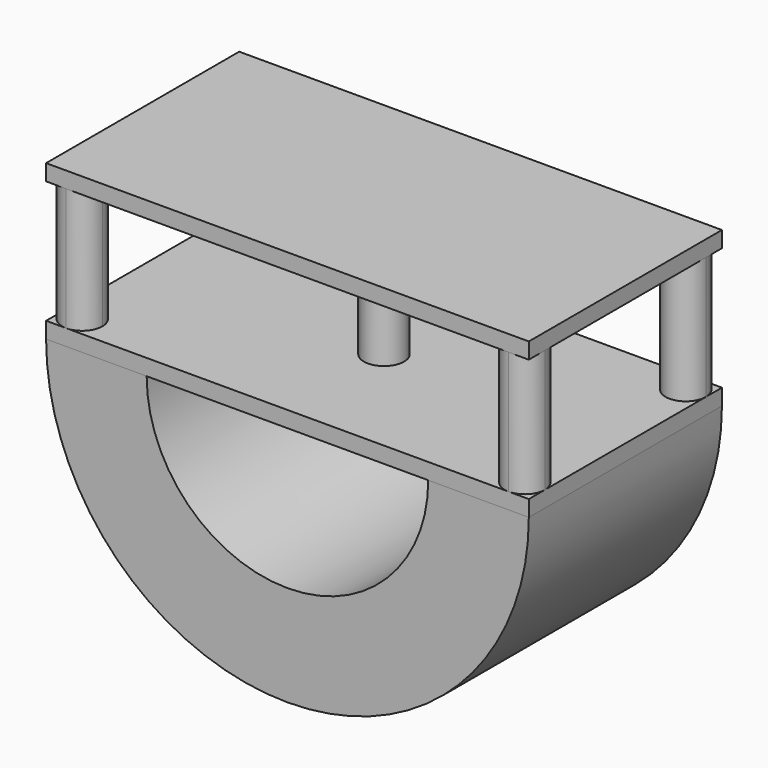
from build123d import *

# Parameters (mm, degrees)
F0_W      = 120
F0_H      = 60
F1_DEPTH  = 4
F2_R      = 5
F3_DEPTH  = 30.5
F5_DEPTH  = 30.5
F7_DEPTH  = 4
F10_DEPTH = 60


with BuildPart() as f1:
    # F0 (on Top) → F1 (new body)
    with BuildSketch(Plane.XY):
        with Locations((60, 30)):
            Rectangle(F0_W, F0_H)
    extrude(amount=F1_DEPTH)

    # F2 (on face) → F3 (join)
    with BuildSketch(Plane.XY.offset(4)):
        with Locations((60, 30)):
            Circle(F2_R)
    extrude(amount=F3_DEPTH)

    # F4 (on face) → F5 (join)
    with BuildSketch(Plane.XY.offset(4)):
        with BuildLine():
            ThreePointArc((0, 55), (5, 50), (10, 55))
            ThreePointArc((10, 55), (8.5355339376, 58.5355338743), (5.0000000895, 60))
            ThreePointArc((5.0000000895, 60), (1.4644661257, 58.5355339376), (0, 55))
        make_face()
        with BuildLine():
            ThreePointArc((10, 5), (5.0000000094, 10), (0, 5.0000000189))
            ThreePointArc((0, 5.0000000189), (1.4644660874, 1.4644661007), (5, 0))
            ThreePointArc((5, 0), (8.5355339059, 1.4644660941), (10, 5))
        make_face()
        with BuildLine():
            ThreePointArc((120, 55), (118.5355339059, 58.5355339059), (115, 60))
            ThreePointArc((115, 60), (111.4644660941, 51.4644660941), (120, 55))
        make_face()
        with BuildLine():
            ThreePointArc((115, 0), (118.5355339059, 1.4644660941), (120, 5))
            ThreePointArc((120, 5), (111.4644660941, 8.5355339059), (115, 0))
        make_face()
    extrude(amount=F5_DEPTH)

    # F6 (on face) → F7 (join)
    with BuildSketch(Plane.XY.offset(34.5)):
        with BuildLine():
            Line((0, 55), (0, 0))
            Line((0, 0), (120, 0))
            Line((120, 0), (120, 60))
            Line((120, 60), (5, 60))
            ThreePointArc((5, 60), (8.5355339059, 58.5355339059), (10, 55))
            ThreePointArc((10, 55), (5, 50), (0, 55))
        make_face()
        with BuildLine():
            Line((0, 60), (0, 55))
            ThreePointArc((0, 55), (1.4644660941, 58.5355339059), (5, 60))
            Line((5, 60), (0, 60))
        make_face()
        with BuildLine():
            ThreePointArc((5, 60), (1.4644660941, 58.5355339059), (0, 55))
            ThreePointArc((0, 55), (5, 50), (10, 55))
            ThreePointArc((10, 55), (8.5355339059, 58.5355339059), (5, 60))
        make_face()
    extrude(amount=F7_DEPTH)


with BuildPart() as f10:
    # F9 (on Front) → F10 (new body)
    with BuildSketch(Plane.XZ):
        with BuildLine():
            ThreePointArc((95, 0), (60, -35), (25, 0))
            Line((25, 0), (0, 0))
            ThreePointArc((0, 0), (60, -60), (120, 0))
            Line((120, 0), (95, 0))
        make_face()
    extrude(amount=-F10_DEPTH)


solid = Compound([f1.part, f10.part])
